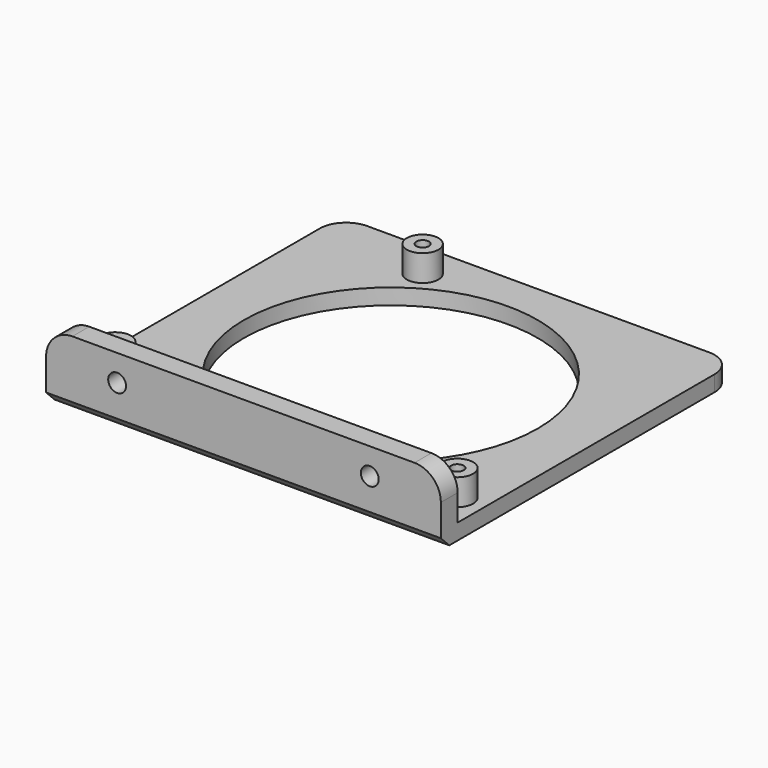
from build123d import *

# Parameters (mm, degrees)
SKETCH_W        = 75
SKETCH_H        = 70
PAD_DEPTH       = 3
SKETCH001_W     = 75
SKETCH001_H     = 4
PAD001_DEPTH    = 10
SKETCH002_R     = 3
PAD002_DEPTH    = 5
SKETCH003_R     = 1.2
POCKET_DEPTH    = 8.001
SKETCH004_R     = 1.7
POCKET001_DEPTH = 5
SKETCH005_R     = 27.911549
POCKET002_DEPTH = 5
FILLET_R        = 5
CHAMFER_SIZE    = 2


with BuildPart() as part:
    # Sketch → Pad (new body)
    with BuildSketch(Plane.XY):
        with Locations((0, 35)):
            Rectangle(SKETCH_W, SKETCH_H)
    extrude(amount=PAD_DEPTH)

    # Sketch001 → Pad001 (new body)
    with BuildSketch(Plane.XY.offset(3)):
        with Locations((0, 2)):
            Rectangle(SKETCH001_W, SKETCH001_H)
    extrude(amount=PAD001_DEPTH)

    # Sketch002 → Pad002 (new body)
    with BuildSketch(Plane.XY.offset(3)):
        with Locations((-16.5, 63.173148)):
            Circle(SKETCH002_R)
        with Locations((32.5, 10.173148)):
            Circle(SKETCH002_R)
        with Locations((-32.5, 10.173148)):
            Circle(SKETCH002_R)
    extrude(amount=PAD002_DEPTH)

    # Sketch003 → Pocket (cut, through all)
    with BuildSketch(Plane.XY.offset(8)):
        with Locations((-16.5, 63.173148)):
            Circle(SKETCH003_R)
        with Locations((32.5, 10.173148)):
            Circle(SKETCH003_R)
        with Locations((-32.5, 10.173148)):
            Circle(SKETCH003_R)
    extrude(amount=-POCKET_DEPTH, mode=Mode.SUBTRACT)

    # Sketch004 → Pocket001 (cut)
    with BuildSketch(Plane(origin=(0, 4, 0), x_dir=(-1, 0, 0), z_dir=(0, 1, 0))):
        with Locations((-24, 8)):
            Circle(SKETCH004_R)
        with Locations((24, 8)):
            Circle(SKETCH004_R)
    extrude(amount=-POCKET001_DEPTH, mode=Mode.SUBTRACT)

    # Sketch005 → Pocket002 (cut)
    with BuildSketch(Plane.XY.offset(3)):
        with Locations((0, 34.999702)):
            Circle(SKETCH005_R)
    extrude(amount=-POCKET002_DEPTH, mode=Mode.SUBTRACT)

    # Fillet
    fillet_edges = [part.edges().sort_by_distance(p)[0] for p in [
        (-37.5, 70, 1.5),
        (37.5, 70, 1.5),
        (37.5, 2, 13),
        (-37.5, 2, 13),
    ]]
    fillet(fillet_edges, radius=FILLET_R)

    # Chamfer
    chamfer_edges = [part.edges().sort_by_distance(p)[0] for p in [
        (0, 0, 0),
    ]]
    chamfer(chamfer_edges, length=CHAMFER_SIZE)


solid = part.part
